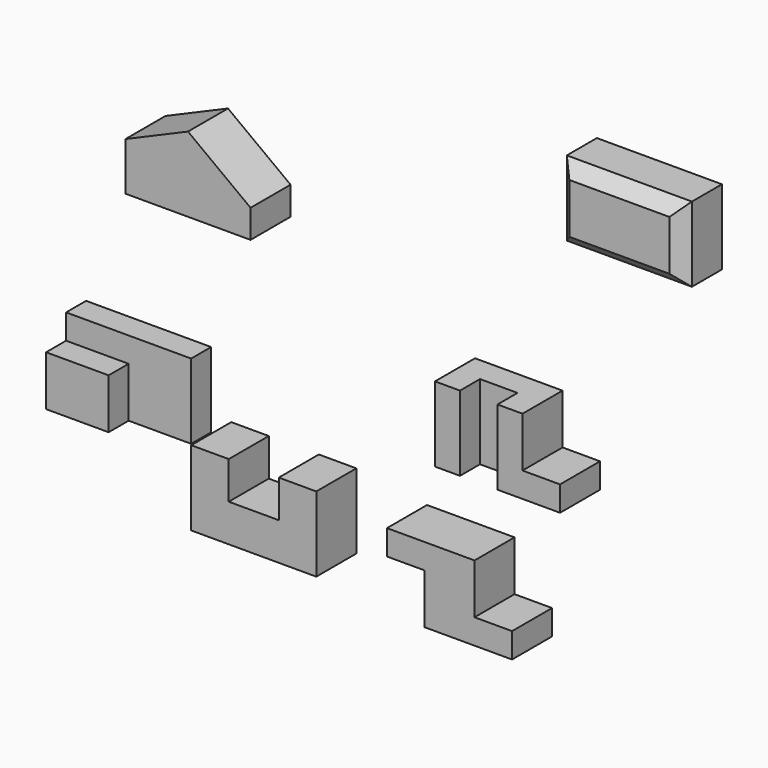
from build123d import *

# Parameters (mm, degrees)
F1_DEPTH  = 101.6
F2_W      = 254
F2_H      = 152.4
F3_DEPTH  = 152.4
F4_W      = 127
F4_H      = 50.8
F5_DEPTH  = 152.4
F6_W      = 127
F6_H      = 50.632129
F7_DEPTH  = 50.8
F8_DEPTH  = 50.8
F10_DEPTH = 101.6
F11_W     = 76.2
F11_H     = 50.8
F12_DEPTH = 152.4
F14_DEPTH = 101.6
F16_DEPTH = 101.6
F17_W     = 254
F17_H     = 152.4
F18_DEPTH = 101.6
F19_SIZE  = 25.4


with BuildPart() as f1:
    # F0 (on Front) → F1 (new body)
    with BuildSketch(Plane.XZ):
        Polygon((0, 152.4), (0, 0), (254, 0), (254, 152.4), (177.8, 152.4), (177.8, 76.2), (76.2, 76.2), (76.2, 125.114418), (76.2, 132.488902), (76.2, 152.4), align=None)
    extrude(amount=-F1_DEPTH)


with BuildPart() as f3:
    # F2 (on Front) → F3 (new body)
    with BuildSketch(Plane.XZ):
        with Locations((-45.868672, 298.832494)):
            Rectangle(F2_W, F2_H)
    extrude(amount=F3_DEPTH)

    # F4 (on face) → F5 (cut)
    with BuildSketch(Plane.XY.offset(375.032494)):
        with Locations((17.631328, -127)):
            Rectangle(F4_W, F4_H)
    extrude(amount=-F5_DEPTH, mode=Mode.SUBTRACT)

    # F6 (on face) → F7 (cut)
    with BuildSketch(Plane.XZ.offset(152.4)):
        with Locations((-109.368672, 349.71643)):
            Rectangle(F6_W, F6_H)
    extrude(amount=-F7_DEPTH, mode=Mode.SUBTRACT)

    # F2 (on Front) → F8 (cut)
    with BuildSketch(Plane.XZ):
        with Locations((-45.868672, 298.832494)):
            Rectangle(F2_W, F2_H)
    extrude(amount=F8_DEPTH, mode=Mode.SUBTRACT)


with BuildPart() as f10:
    # F9 (on Front) → F10 (new body)
    with BuildSketch(Plane.XZ):
        Polygon((576.311184, 495.302642), (576.311184, 342.902642), (830.311184, 342.902642), (830.311184, 393.702642), (754.111184, 393.702642), (754.111184, 495.302642), align=None)
    extrude(amount=F10_DEPTH)

    # F11 (on face) → F12 (cut)
    with BuildSketch(Plane.XY.offset(495.302642)):
        with Locations((665.211184, -76.2)):
            Rectangle(F11_W, F11_H)
    extrude(amount=-F12_DEPTH, mode=Mode.SUBTRACT)


with BuildPart() as f14:
    # F13 (on Front) → F14 (new body)
    with BuildSketch(Plane.XZ):
        Polygon((555.046569, 150.460462), (555.046569, 48.860462), (732.846569, 48.860462), (732.846569, 99.660462), (656.646569, 99.660462), (656.646569, 201.260462), (478.846569, 201.260462), (478.846569, 150.460462), align=None)
    extrude(amount=F14_DEPTH)


with BuildPart() as f16:
    # F15 (on Front) → F16 (new body)
    with BuildSketch(Plane.XZ):
        Polygon((201.730754, 683.829725), (74.730754, 778.819865), (-52.269246, 724.146187), (-52.269246, 626.419865), (201.730754, 626.419865), align=None)
    extrude(amount=F16_DEPTH)


with BuildPart() as f18:
    # F17 (on Front) → F18 (new body)
    with BuildSketch(Plane.XZ):
        with Locations((869.520843, 825.588486)):
            Rectangle(F17_W, F17_H)
    extrude(amount=-F18_DEPTH)

    # F19
    f19_edges = [f18.edges().sort_by_distance(p)[0] for p in [
        (869.520843, 0, 901.788486),
        (742.520843, 0, 825.588486),
        (869.520843, 0, 749.388486),
        (996.520843, 0, 825.588486),
    ]]
    chamfer(f19_edges, length=F19_SIZE)


solid = Compound([f1.part, f3.part, f10.part, f14.part, f16.part, f18.part])
